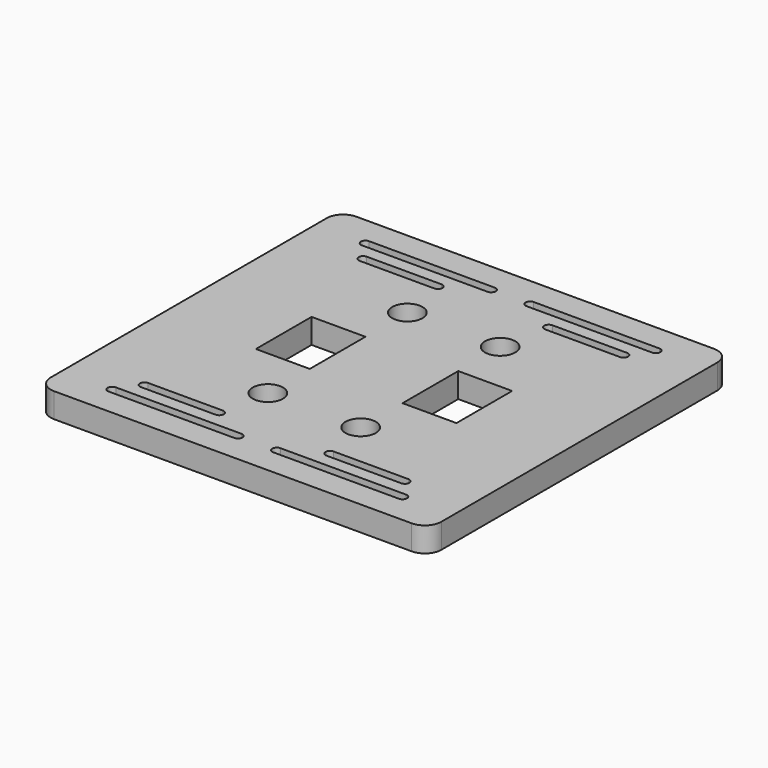
from build123d import *

# Parameters (mm, degrees)
F0_W     = 120.534546
F0_H     = 116.60909
F1_DEPTH = 7.62
F2_R     = 5.08
F3_W     = 16.625449
F3_H     = 21.474546
F3_R     = 4.675549
F4_DEPTH = 25.4


with BuildPart() as f1:
    # F0 (on Top) → F1 (new body)
    with BuildSketch(Plane.XY):
        Rectangle(F0_W, F0_H)
    extrude(amount=F1_DEPTH)

    # F2
    f2_edges = [f1.edges().sort_by_distance(p)[0] for p in [
        (60.267273, -58.304545, 3.81),
        (-60.267273, -58.304545, 3.81),
        (-60.267273, 58.304545, 3.81),
        (60.267273, 58.304545, 3.81),
    ]]
    fillet(f2_edges, radius=F2_R)

    # F3 (on face) → F4 (cut)
    with BuildSketch(Plane.XY.offset(7.62)):
        with Locations((-22.629092, 0)):
            Rectangle(F3_W, F3_H)
        with Locations((22.629092, 0)):
            Rectangle(F3_W, F3_H)
        with Locations((-14.316367, 26.90091)):
            Circle(F3_R)
        with BuildLine():
            Line((40.178183, 43.560948), (17.087273, 43.560948))
            ThreePointArc((17.087273, 43.560948), (15.701819, 42.175494), (17.087273, 40.79004))
            Line((17.087273, 40.79004), (40.178183, 40.79004))
            ThreePointArc((40.178183, 40.79004), (41.563638, 42.175494), (40.178183, 43.560948))
        make_face()
        with BuildLine():
            Line((44.796359, 50.222728), (6.003633, 50.222728))
            ThreePointArc((6.003633, 50.222728), (4.618179, 48.837274), (6.003633, 47.45182))
            Line((6.003633, 47.45182), (44.796359, 47.45182))
            ThreePointArc((44.796359, 47.45182), (46.181813, 48.837274), (44.796359, 50.222728))
        make_face()
        with BuildLine():
            ThreePointArc((-6.003633, 47.45182), (-4.618179, 48.837274), (-6.003633, 50.222728))
            Line((-6.003633, 50.222728), (-44.796359, 50.222728))
            ThreePointArc((-44.796359, 50.222728), (-46.181813, 48.837274), (-44.796359, 47.45182))
            Line((-44.796359, 47.45182), (-6.003633, 47.45182))
        make_face()
        with BuildLine():
            ThreePointArc((-17.087273, 40.79004), (-15.701819, 42.175494), (-17.087273, 43.560948))
            Line((-17.087273, 43.560948), (-40.178183, 43.560948))
            ThreePointArc((-40.178183, 43.560948), (-41.563638, 42.175494), (-40.178183, 40.79004))
            Line((-40.178183, 40.79004), (-17.087273, 40.79004))
        make_face()
        with BuildLine():
            ThreePointArc((17.087273, -40.79004), (15.701819, -42.175494), (17.087273, -43.560948))
            Line((17.087273, -43.560948), (40.178183, -43.560948))
            ThreePointArc((40.178183, -43.560948), (41.563638, -42.175494), (40.178183, -40.79004))
            Line((40.178183, -40.79004), (17.087273, -40.79004))
        make_face()
        with BuildLine():
            ThreePointArc((-17.087273, -43.560948), (-15.701819, -42.175494), (-17.087273, -40.79004))
            Line((-17.087273, -40.79004), (-40.178183, -40.79004))
            ThreePointArc((-40.178183, -40.79004), (-41.563638, -42.175494), (-40.178183, -43.560948))
            Line((-40.178183, -43.560948), (-17.087273, -43.560948))
        make_face()
        with BuildLine():
            ThreePointArc((-6.003633, -50.222728), (-4.618179, -48.837274), (-6.003633, -47.45182))
            Line((-6.003633, -47.45182), (-44.796359, -47.45182))
            ThreePointArc((-44.796359, -47.45182), (-46.181813, -48.837274), (-44.796359, -50.222728))
            Line((-44.796359, -50.222728), (-6.003633, -50.222728))
        make_face()
        with BuildLine():
            ThreePointArc((6.003633, -47.45182), (4.618179, -48.837274), (6.003633, -50.222728))
            Line((6.003633, -50.222728), (44.796359, -50.222728))
            ThreePointArc((44.796359, -50.222728), (46.181813, -48.837274), (44.796359, -47.45182))
            Line((44.796359, -47.45182), (6.003633, -47.45182))
        make_face()
        with Locations((-14.316367, -26.90091)):
            Circle(F3_R)
        with Locations((14.316367, -26.90091)):
            Circle(F3_R)
        with Locations((14.316367, 26.90091)):
            Circle(F3_R)
    extrude(amount=-F4_DEPTH, mode=Mode.SUBTRACT)


solid = f1.part
